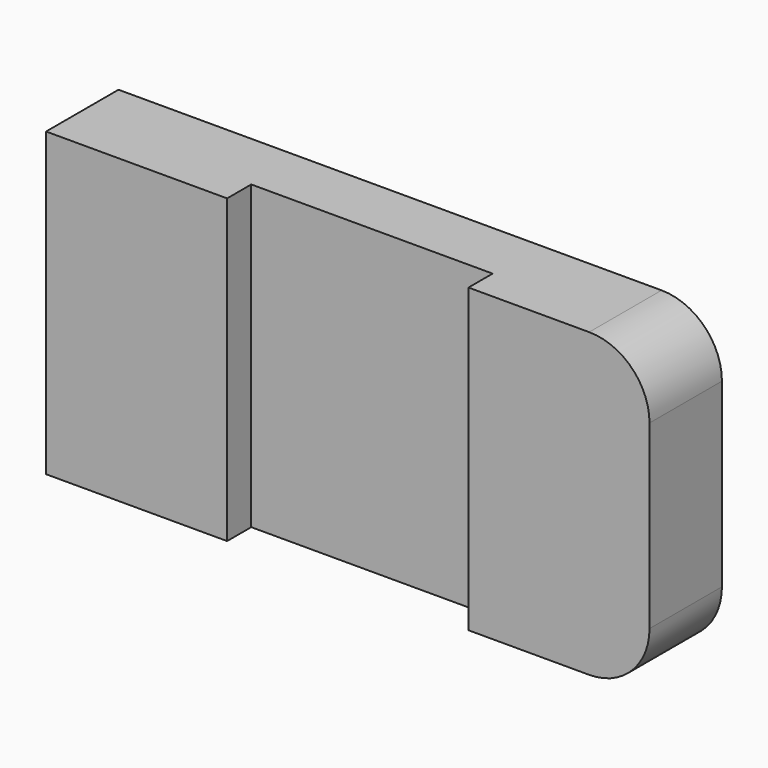
from build123d import *

# Parameters (mm, degrees)
F1_W     = 100
F1_H     = 50
F2_DEPTH = 15
F3_R     = 10
F4_R     = 10
F5_W     = 40
F5_H     = 5
F6_DEPTH = 50.001
F7_T     = -3


with BuildPart() as f2:
    # F1 (on Front) → F2 (new body)
    with BuildSketch(Plane.XZ):
        with Locations((50, 25)):
            Rectangle(F1_W, F1_H)
    extrude(amount=F2_DEPTH)

    # F3
    f3_edges = [f2.edges().sort_by_distance(p)[0] for p in [
        (100, -7.5, 50),
    ]]
    fillet(f3_edges, radius=F3_R)

    # F4
    f4_edges = [f2.edges().sort_by_distance(p)[0] for p in [
        (100, -7.5, 0),
    ]]
    fillet(f4_edges, radius=F4_R)

    # F5 (on face) → F6 (cut, through all)
    with BuildSketch(Plane(origin=(0, 0, 0), x_dir=(1, 0, 0), z_dir=(0, 0, -1))):
        with Locations((50, 12.5)):
            Rectangle(F5_W, F5_H)
    extrude(amount=-F6_DEPTH, mode=Mode.SUBTRACT)

    # F7
    f7_openings = [f2.faces().sort_by_distance(p)[0] for p in [
        (49.58642, 0, 25),
    ]]
    offset(amount=F7_T, openings=f7_openings, kind=Kind.INTERSECTION)


solid = f2.part
